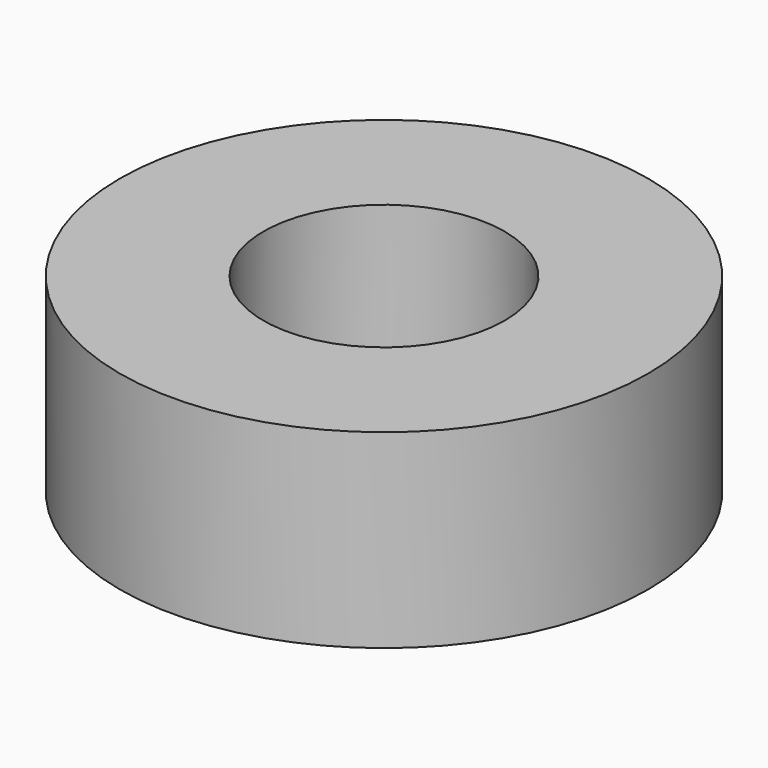
from build123d import *

# Parameters (mm, degrees)
F0_R     = 51
F1_DEPTH = 36.7
F2_R     = 47.1
F3_DEPTH = 12.2
F4_R     = 23.3
F5_DEPTH = 85


with BuildPart() as f1:
    # F0 (on Top) → F1 (new body)
    with BuildSketch(Plane.XY):
        Circle(F0_R)
    extrude(amount=F1_DEPTH)

    # F2 (on Top) → F3 (cut)
    with BuildSketch(Plane.XY):
        Circle(F2_R)
    extrude(amount=F3_DEPTH, mode=Mode.SUBTRACT)

    # F4 (on Top) → F5 (cut)
    with BuildSketch(Plane.XY):
        Circle(F4_R)
    extrude(amount=F5_DEPTH, mode=Mode.SUBTRACT)


solid = f1.part
